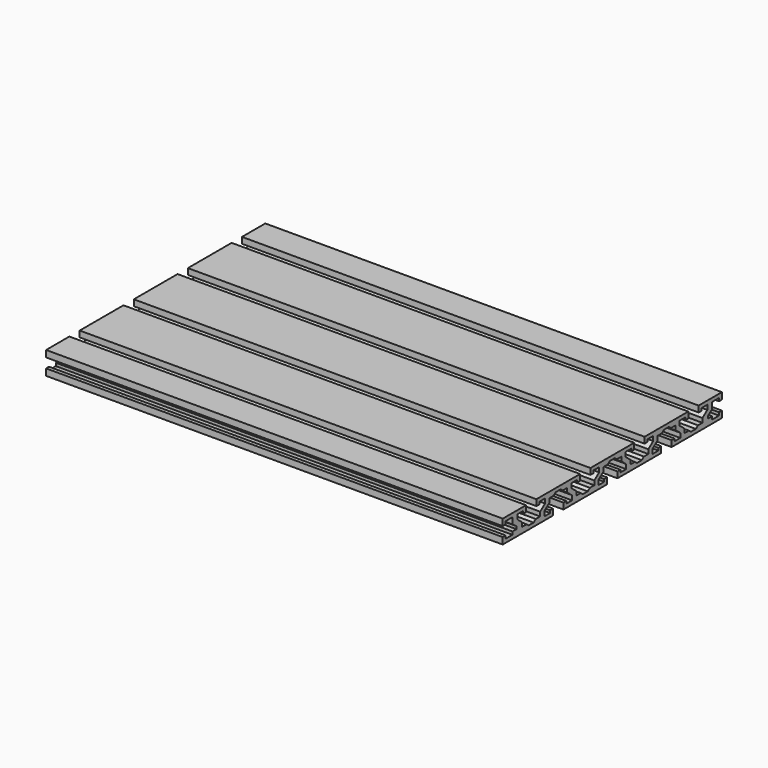
from build123d import *

# Parameters (mm, degrees)
SKETCH001_W            = 180
SKETCH001_H            = 15
PAD001_DEPTH           = 150
POCKET_DEPTH           = 1000.358052
POCKET001_DEPTH        = 300.001
LINEARPATTERN_COUNT    = 4
LINEARPATTERN_PITCH    = 44.416667
POCKET002_DEPTH        = 300.001
LINEARPATTERN001_COUNT = 3
LINEARPATTERN001_PITCH = 44.415


with BuildPart() as part:
    # Sketch001 → Pad001 (new body, symmetric)
    with BuildSketch(Plane.YZ):
        Rectangle(SKETCH001_W, SKETCH001_H)
    extrude(amount=PAD001_DEPTH, both=True)

    # Sketch002 (on Face6 of Pad001) → Pocket (cut, through all)
    with BuildSketch(Plane.YZ.offset(150)):
        Polygon((-90, 3.175), (-87.6, 3.175), (-87.6, 5.1), (-82, 5.1), (-82, 0.9), (-78.75, -1.425), (-78.75, -3.175), (-82, -3.175), (-82, -5.1), (-87.6, -5.1), (-87.6, -3.175), (-90, -3.175), align=None)
    pocket = extrude(amount=-POCKET_DEPTH, mode=Mode.SUBTRACT)

    # Mirrored: Pocket across XZ
    add(pocket.mirror(Plane.XZ), mode=Mode.SUBTRACT)

    # Sketch003 (on Face5 of Mirrored) → Pocket001 (cut, through all)
    with BuildSketch(Plane.YZ.offset(150)):
        Polygon((-70.875, 7.5), (-70.875, 3.5), (-73.275, 3.5), (-73.275, 5.1), (-78, 5.1), (-78, 2.1), (-74, -0.972), (-74, -3.75), (-70.382812, -3.75), (-68.625, -5.1), (-64.625, -5.1), (-62.867188, -3.75), (-59.25, -3.75), (-59.25, -0.972), (-55.25, 2.1), (-55.25, 5.1), (-59.975, 5.1), (-59.975, 3.5), (-62.375, 3.5), (-62.375, 7.5), align=None)
    pocket001 = extrude(amount=-POCKET001_DEPTH, mode=Mode.SUBTRACT)

    # LinearPattern: Pocket001 ×4
    with Locations(*[(0, i * LINEARPATTERN_PITCH, 0) for i in range(1, LINEARPATTERN_COUNT)]):
        add(pocket001, mode=Mode.SUBTRACT)

    # Sketch004 (on Face4 of LinearPattern) → Pocket002 (cut, through all)
    with BuildSketch(Plane.YZ.offset(150)):
        Polygon((-48.666667, -7.5), (-48.666667, -3.5), (-51.066667, -3.5), (-51.066667, -5.1), (-55.791667, -5.1), (-55.791667, -2.1), (-51.791667, 0.972), (-51.791667, 3.75), (-48.174479, 3.75), (-46.416667, 5.1), (-42.416667, 5.1), (-40.658854, 3.75), (-37.041667, 3.75), (-37.041667, 0.972), (-33.041667, -2.1), (-33.041667, -5.1), (-37.766667, -5.1), (-37.766667, -3.5), (-40.166667, -3.5), (-40.166667, -7.5), align=None)
    pocket002 = extrude(amount=-POCKET002_DEPTH, mode=Mode.SUBTRACT)

    # LinearPattern001: Pocket002 ×3
    with Locations(*[(0, i * LINEARPATTERN001_PITCH, 0) for i in range(1, LINEARPATTERN001_COUNT)]):
        add(pocket002, mode=Mode.SUBTRACT)


solid = part.part
